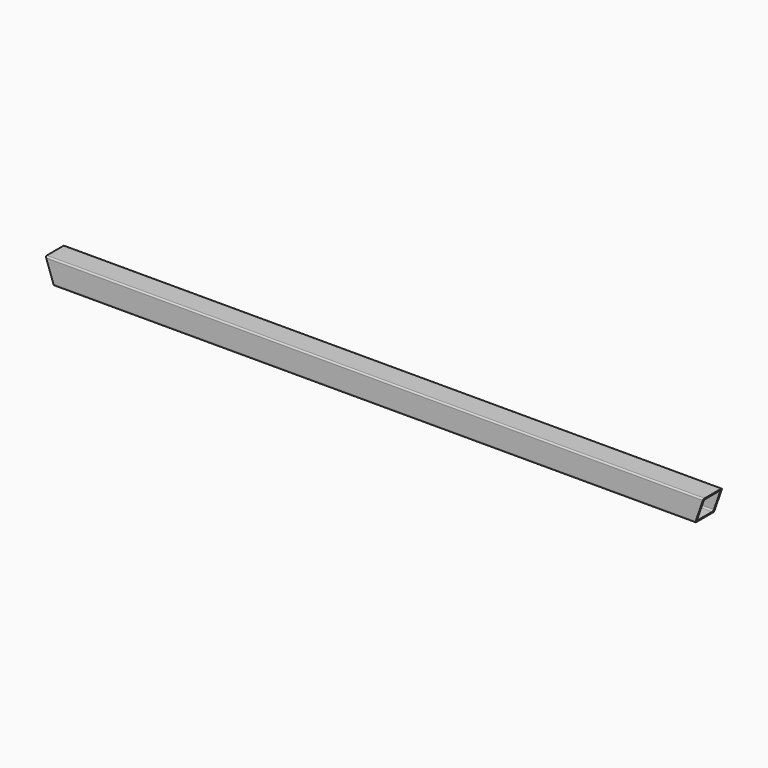
from build123d import *

# Parameters (mm, degrees)
F1_DEPTH      = 1409.7
F3_DEPTH      = 25.4
F3_DEPTH_BACK = 25.4


with BuildPart() as f1:
    # F0 (on Right) → F1 (new body)
    with BuildSketch(Plane.YZ):
        with BuildLine():
            ThreePointArc((25.4, 22.225), (24.470064, 24.470064), (22.225, 25.4))
            Line((22.225, 25.4), (-22.225, 25.4))
            ThreePointArc((-22.225, 25.4), (-24.470064, 24.470064), (-25.4, 22.225))
            Line((-25.4, 22.225), (-25.4, -22.225))
            ThreePointArc((-25.4, -22.225), (-24.470064, -24.470064), (-22.225, -25.4))
            Line((-22.225, -25.4), (22.225, -25.4))
            ThreePointArc((22.225, -25.4), (24.470064, -24.470064), (25.4, -22.225))
            Line((25.4, -22.225), (25.4, 22.225))
        make_face()
        with BuildLine():
            Line((-19.05, 22.225), (19.05, 22.225))
            ThreePointArc((19.05, 22.225), (21.295064, 21.295064), (22.225, 19.05))
            Line((22.225, 19.05), (22.225, -19.05))
            ThreePointArc((22.225, -19.05), (21.295064, -21.295064), (19.05, -22.225))
            Line((19.05, -22.225), (-19.05, -22.225))
            ThreePointArc((-19.05, -22.225), (-21.295064, -21.295064), (-22.225, -19.05))
            Line((-22.225, -19.05), (-22.225, 19.05))
            ThreePointArc((-22.225, 19.05), (-21.295064, 21.295064), (-19.05, 22.225))
        make_face(mode=Mode.SUBTRACT)
    extrude(amount=F1_DEPTH)

    # F2 (on Front) → F3 (cut, two sides)
    with BuildSketch(Plane.XZ) as f3_sk:
        Polygon((0, -25.4), (17.819773, -25.4), (0, 25.4), align=None)
        Polygon((1391.880227, -25.4), (1409.7, -25.4), (1409.7, 25.4), align=None)
    extrude(amount=F3_DEPTH, mode=Mode.SUBTRACT)
    extrude(f3_sk.sketch, amount=-F3_DEPTH_BACK, mode=Mode.SUBTRACT)


solid = f1.part
